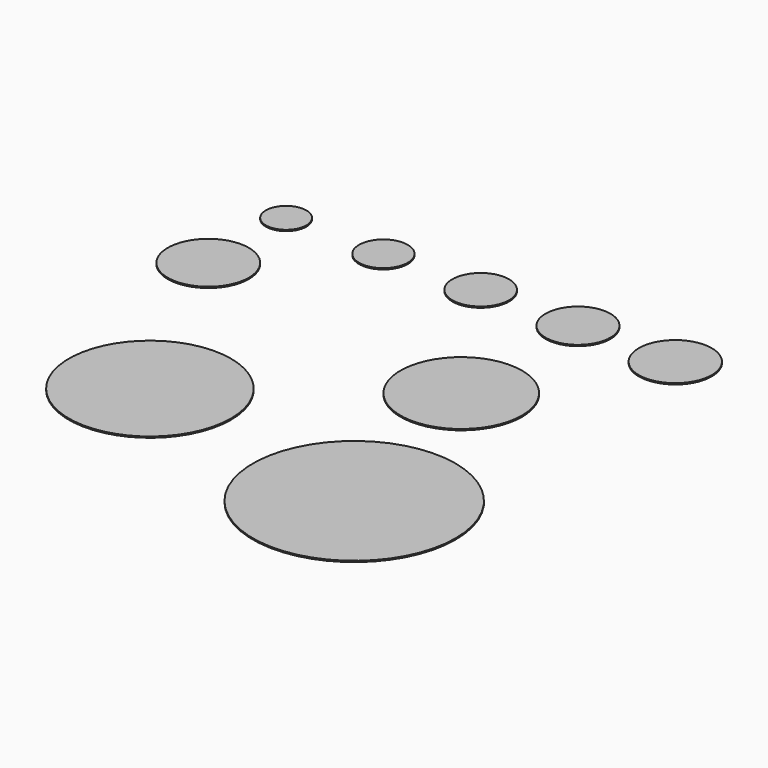
from build123d import *

# Parameters (mm, degrees)
F0_R     = 5
F0_R_2   = 10
F0_R_3   = 6
F0_R_4   = 7
F0_R_5   = 8
F0_R_6   = 9
F0_R_7   = 15
F0_R_8   = 20
F0_R_9   = 25
F1_DEPTH = 0.3


with BuildPart() as f1:
    # F0 (on Top) → F1 (new body)
    with BuildSketch(Plane.XY):
        with Locations((-48, 44.465259)):
            Circle(F0_R)
        with Locations((-48, 20.465259)):
            Circle(F0_R_2)
        with Locations((-24, 44.465259)):
            Circle(F0_R_3)
        with Locations((0, 44.465259)):
            Circle(F0_R_4)
        with Locations((24, 44.465259)):
            Circle(F0_R_5)
        with Locations((48, 44.465259)):
            Circle(F0_R_6)
        with Locations((24, 8.465259)):
            Circle(F0_R_7)
        with Locations((-24, -27.534741)):
            Circle(F0_R_8)
        with Locations((36, -39.534741)):
            Circle(F0_R_9)
    extrude(amount=F1_DEPTH)


solid = f1.part
